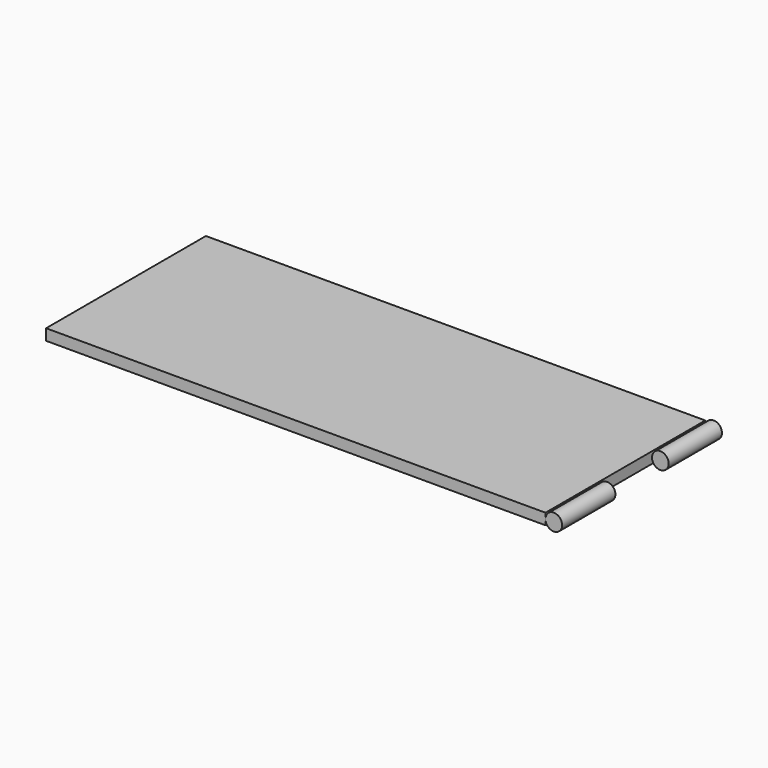
from build123d import *

# Parameters (mm, degrees)
F0_W     = 90
F0_H     = 36
F1_DEPTH = 2
F2_R     = 1.5
F3_DEPTH = 12
F4_R     = 1.5
F5_DEPTH = 12


with BuildPart() as f1:
    # F0 (on Top) → F1 (new body)
    with BuildSketch(Plane.XY):
        with Locations((45, 18)):
            Rectangle(F0_W, F0_H)
    extrude(amount=F1_DEPTH)

    # F4 (on face) → F5 (join)
    with BuildSketch(Plane(origin=(0, 36, 0), x_dir=(-1, 0, 0), z_dir=(0, 1, 0))):
        with Locations((-91.5, 1)):
            Circle(F4_R)
    extrude(amount=-F5_DEPTH)


with BuildPart() as f3:
    # F2 (on Front) → F3 (new body)
    with BuildSketch(Plane.XZ):
        with Locations((91.5, 1)):
            Circle(F2_R)
    extrude(amount=-F3_DEPTH)


solid = Compound([f1.part, f3.part])
